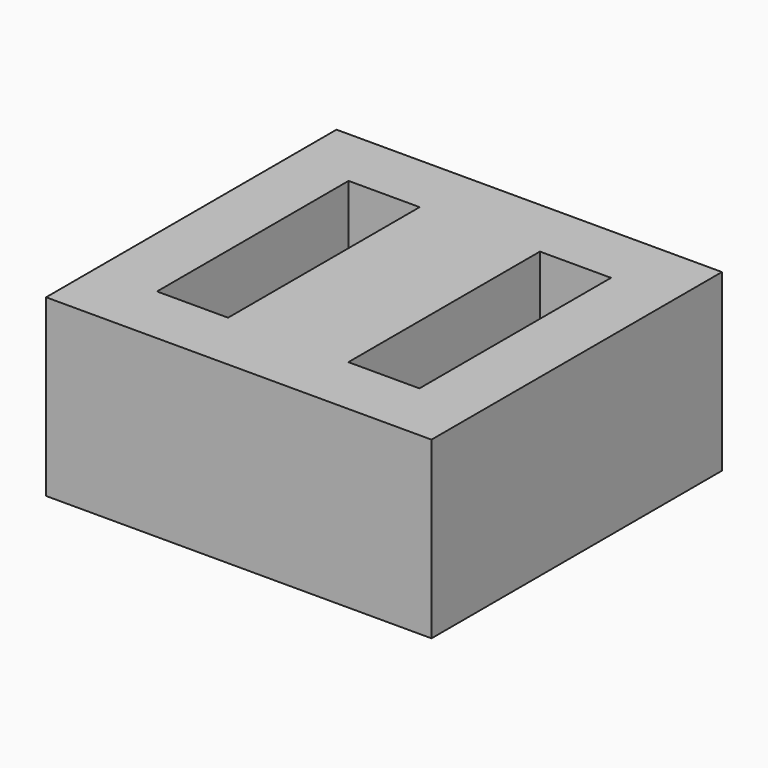
from build123d import *

# Parameters (mm, degrees)
BOX_W        = 70.5
BOX_H        = 66.4
BOX_DEPTH    = 32
SKETCH_W     = 13
SKETCH_H     = 43.8
POCKET_DEPTH = 32


with BuildPart() as part:
    # Box → Box (new body)
    with BuildSketch(Plane.XY):
        with Locations((35.25, 33.2)):
            Rectangle(BOX_W, BOX_H)
    extrude(amount=BOX_DEPTH)

    # Sketch → Pocket (cut)
    with BuildSketch(Plane.XY.offset(32)):
        with Locations((17.75, 33.2)):
            Rectangle(SKETCH_W, SKETCH_H)
        with Locations((52.75, 33.2)):
            Rectangle(SKETCH_W, SKETCH_H)
    extrude(amount=-POCKET_DEPTH, mode=Mode.SUBTRACT)


solid = part.part
